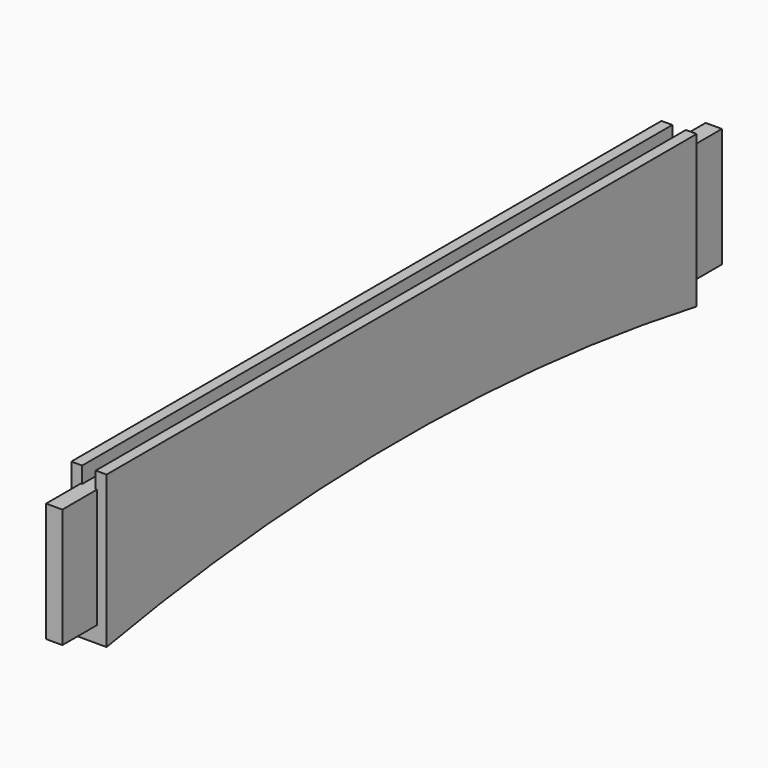
from build123d import *

# Parameters (mm, degrees)
F1_DEPTH = 10.31875
F2_W     = 9.525
F2_H     = 69.85
F3_DEPTH = 25.4
F4_W     = 9.525
F4_H     = 69.85
F5_DEPTH = 25.4
F6_W     = 7.9375
F6_H     = 431.8
F7_DEPTH = 9.525


with BuildPart() as f1:
    # F0 (on Right) → F1 (new body, symmetric)
    with BuildSketch(Plane.YZ):
        with BuildLine():
            Line((215.9, 44.45), (-215.9, 44.45))
            Line((-215.9, 44.45), (-215.9, -44.45))
            ThreePointArc((-215.9, -44.45), (0, -24.998684), (215.9, -44.45))
            Line((215.9, -44.45), (215.9, 44.45))
        make_face()
    extrude(amount=F1_DEPTH, both=True)

    # F2 (on face) → F3 (join)
    with BuildSketch(Plane.XZ.offset(215.9)):
        Rectangle(F2_W, F2_H)
    extrude(amount=F3_DEPTH)

    # F4 (on face) → F5 (join)
    with BuildSketch(Plane(origin=(0, 215.9, 0), x_dir=(-1, 0, 0), z_dir=(0, 1, 0))):
        Rectangle(F4_W, F4_H)
    extrude(amount=F5_DEPTH)

    # F6 (on face) → F7 (cut)
    with BuildSketch(Plane.XY.offset(44.45)):
        Rectangle(F6_W, F6_H)
    extrude(amount=-F7_DEPTH, mode=Mode.SUBTRACT)


solid = f1.part
